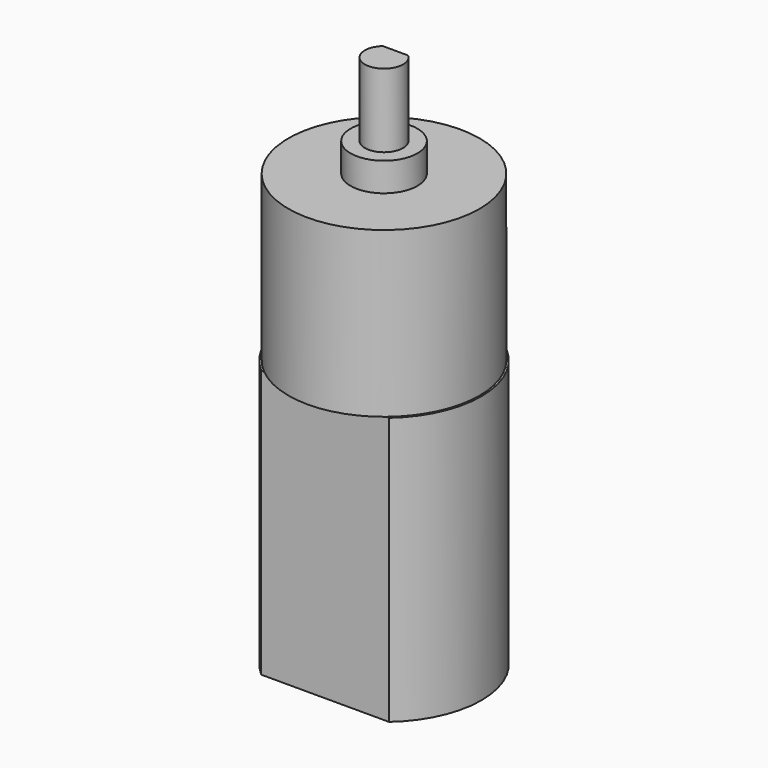
from build123d import *

# Parameters (mm, degrees)
F0_R     = 10
F0_R_2   = 3.5
F1_DEPTH = 17.2
F2_DEPTH = 3
F3_DEPTH = 10.7
F5_DEPTH = 28


with BuildPart() as f1:
    # F0 (on Top) → F1 (new body)
    with BuildSketch(Plane.XY):
        Circle(F0_R)
        Circle(F0_R_2, mode=Mode.SUBTRACT)
        Circle(F0_R_2)
        with BuildLine():
            ThreePointArc((1.3228756555, 1.5), (0, -2), (-1.3228756555, 1.5))
            Line((-1.3228756555, 1.5), (1.3228756555, 1.5))
        make_face(mode=Mode.SUBTRACT)
        Circle(F0_R_2)
        with BuildLine():
            ThreePointArc((1.3228756555, 1.5), (0, -2), (-1.3228756555, 1.5))
            Line((-1.3228756555, 1.5), (1.3228756555, 1.5))
        make_face(mode=Mode.SUBTRACT)
        with BuildLine():
            Line((1.3228756555, 1.5), (-1.3228756555, 1.5))
            ThreePointArc((-1.3228756555, 1.5), (0, -2), (1.3228756555, 1.5))
        make_face()
    extrude(amount=-F1_DEPTH)

    # F0 (on Top) → F2 (join)
    with BuildSketch(Plane.XY):
        Circle(F0_R_2)
        with BuildLine():
            ThreePointArc((1.3228756555, 1.5), (0, -2), (-1.3228756555, 1.5))
            Line((-1.3228756555, 1.5), (1.3228756555, 1.5))
        make_face(mode=Mode.SUBTRACT)
        Circle(F0_R_2)
        with BuildLine():
            ThreePointArc((1.3228756555, 1.5), (0, -2), (-1.3228756555, 1.5))
            Line((-1.3228756555, 1.5), (1.3228756555, 1.5))
        make_face(mode=Mode.SUBTRACT)
        with BuildLine():
            Line((1.3228756555, 1.5), (-1.3228756555, 1.5))
            ThreePointArc((-1.3228756555, 1.5), (0, -2), (1.3228756555, 1.5))
        make_face()
    extrude(amount=F2_DEPTH)

    # F0 (on Top) → F3 (join)
    with BuildSketch(Plane.XY):
        with BuildLine():
            Line((1.3228756555, 1.5), (-1.3228756555, 1.5))
            ThreePointArc((-1.3228756555, 1.5), (0, -2), (1.3228756555, 1.5))
        make_face()
    extrude(amount=F3_DEPTH)

    # F4 (on face) → F5 (join)
    with BuildSketch(Plane(origin=(0, 0, -17.2), x_dir=(1, 0, 0), z_dir=(0, 0, -1))):
        with BuildLine():
            ThreePointArc((-6.3804388564, -7.7), (-10, 0), (-6.3804388564, 7.7))
            Line((-6.3804388564, 7.7), (-6.6895440801, 7.7))
            ThreePointArc((-6.6895440801, 7.7), (-10.2, 0), (-6.6895440801, -7.7))
            Line((-6.6895440801, -7.7), (-6.3804388564, -7.7))
        make_face()
        with BuildLine():
            ThreePointArc((10, 0), (9.0499831095, 4.2541515862), (6.3804388564, 7.7))
            Line((6.3804388564, 7.7), (-6.3804388564, 7.7))
            ThreePointArc((-6.3804388564, 7.7), (-10, 0), (-6.3804388564, -7.7))
            Line((-6.3804388564, -7.7), (6.3804388564, -7.7))
            ThreePointArc((6.3804388564, -7.7), (9.0499831095, -4.2541515862), (10, 0))
        make_face()
        with BuildLine():
            ThreePointArc((6.6895440801, -7.7), (10.2, 0), (6.6895440801, 7.7))
            Line((6.6895440801, 7.7), (6.3804388564, 7.7))
            ThreePointArc((6.3804388564, 7.7), (9.0499831095, 4.2541515862), (10, 0))
            ThreePointArc((10, 0), (9.0499831095, -4.2541515862), (6.3804388564, -7.7))
            Line((6.3804388564, -7.7), (6.6895440801, -7.7))
        make_face()
    extrude(amount=F5_DEPTH)


solid = f1.part
